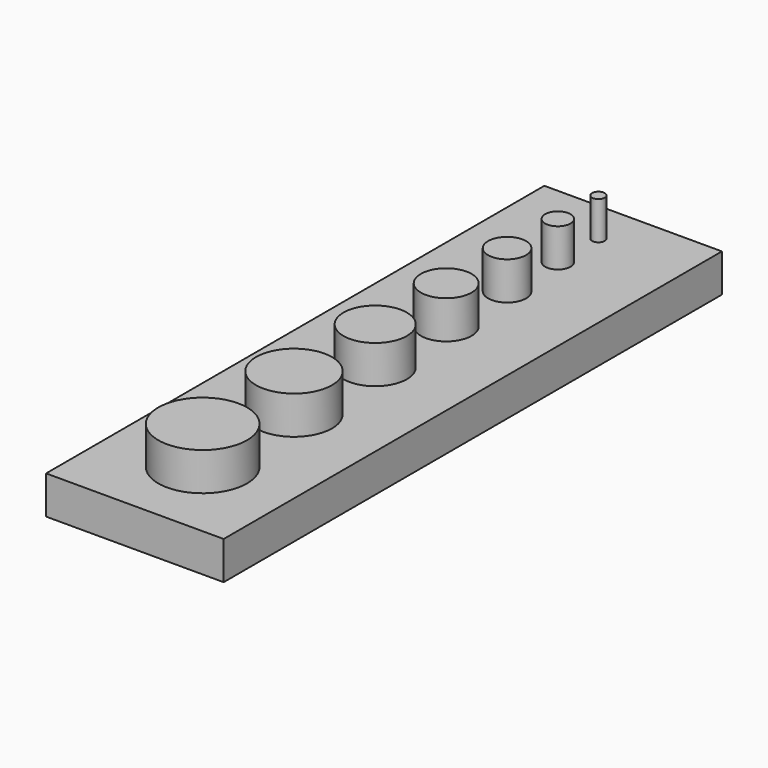
from build123d import *

# Parameters (mm, degrees)
F0_W     = 14
F0_H     = 49.101681
F0_R     = 3.5
F0_R_2   = 3
F0_R_3   = 2.5
F0_R_4   = 2
F0_R_5   = 1.5
F0_R_6   = 1
F0_R_7   = 0.5
F1_DEPTH = 3
F2_DEPTH = 6


with BuildPart() as f1:
    # F0 (on Top) → F1 (new body)
    with BuildSketch(Plane.XY):
        with Locations((0, -8.822086)):
            Rectangle(F0_W, F0_H)
        with Locations((0, -26.690952)):
            Circle(F0_R, mode=Mode.SUBTRACT)
        with Locations((0, -17.690952)):
            Circle(F0_R_2, mode=Mode.SUBTRACT)
        with Locations((0, -9.690952)):
            Circle(F0_R_3, mode=Mode.SUBTRACT)
        with Locations((0, -2.690952)):
            Circle(F0_R_4, mode=Mode.SUBTRACT)
        with Locations((0, 3.309048)):
            Circle(F0_R_5, mode=Mode.SUBTRACT)
        with Locations((0, 8.309048)):
            Circle(F0_R_6, mode=Mode.SUBTRACT)
        with Locations((0, 12.309048)):
            Circle(F0_R_7, mode=Mode.SUBTRACT)
    extrude(amount=F1_DEPTH)

    # F0 (on Top) → F2 (join)
    with BuildSketch(Plane.XY):
        with Locations((0, -26.690952)):
            Circle(F0_R)
        with Locations((0, -17.690952)):
            Circle(F0_R_2)
        with Locations((0, -9.690952)):
            Circle(F0_R_3)
        with Locations((0, -2.690952)):
            Circle(F0_R_4)
        with Locations((0, 3.309048)):
            Circle(F0_R_5)
        with Locations((0, 8.309048)):
            Circle(F0_R_6)
        with Locations((0, 12.309048)):
            Circle(F0_R_7)
    extrude(amount=F2_DEPTH)


solid = f1.part
